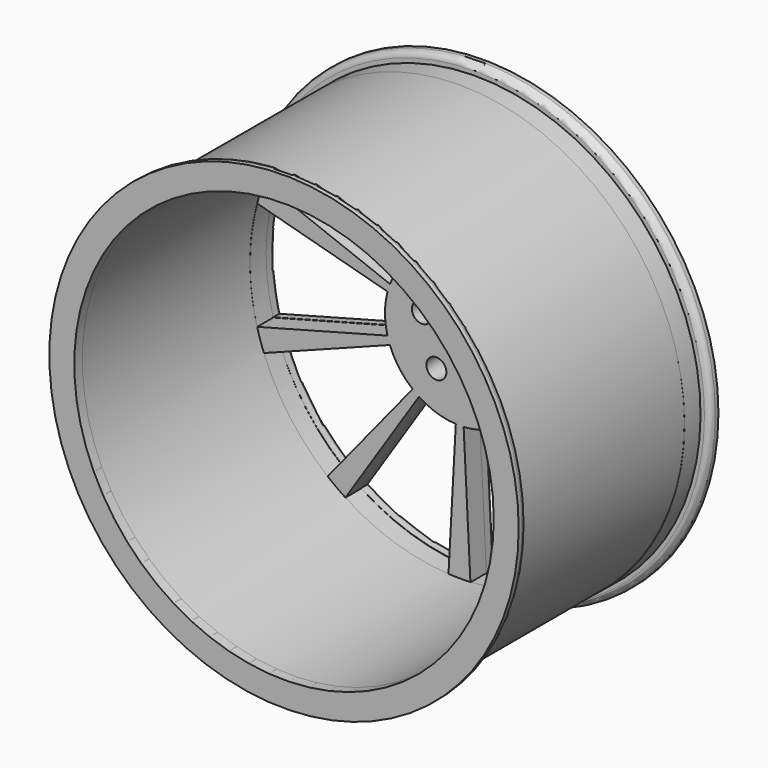
from build123d import *

# Parameters (mm, degrees)
F0_R     = 235
F0_R_2   = 10
F1_DEPTH = 10
F2_R     = 10
F3_DEPTH = 20
F4_R     = 225
F4_R_2   = 210
F5_DEPTH = 220
F6_R     = 235
F6_R_2   = 210
F7_DEPTH = 10
F8_SIZE  = 5
F9_R     = 6
F10_R    = 6
F11_SIZE = 7
F12_R    = 3


with BuildPart() as f1:
    # F0 (on Front) → F1 (new body)
    with BuildSketch(Plane.XZ):
        Circle(F0_R)
        with BuildLine():
            Line((-114.7324624371, -175.8876404502), (-40.9758794418, -62.8170144465))
            ThreePointArc((-40.9758794418, -62.8170144465), (-23.3214205125, -71.2819145736), (-4.0776453158, -74.8890700215))
            Line((-4.0776453158, -74.8890700215), (-11.4174068842, -209.6893960601))
            ThreePointArc((-11.4174068842, -209.6893960601), (-65.2999774351, -199.5893608061), (-114.7324624371, -175.8876404502))
        make_face(mode=Mode.SUBTRACT)
        with BuildLine():
            ThreePointArc((-132.4892107672, -162.9313015669), (-170.1444742736, -123.0888210772), (-196.2046730352, -74.858040845))
            Line((-196.2046730352, -74.858040845), (-70.0730975126, -26.7350145875))
            ThreePointArc((-70.0730975126, -26.7350145875), (-60.7658836691, -43.9602932419), (-47.317575274, -58.1897505596))
            Line((-47.317575274, -58.1897505596), (-132.4892107672, -162.9313015669))
        make_face(mode=Mode.SUBTRACT)
        with Locations((-23.5114100917, -32.360679775)):
            Circle(F0_R_2, mode=Mode.SUBTRACT)
        with BuildLine():
            Line((10.563649199, -209.7341396044), (3.7727318568, -74.9050498587))
            ThreePointArc((3.7727318568, -74.9050498587), (23.0310326139, -71.3762673214), (40.719806559, -62.983310121))
            Line((40.719806559, -62.983310121), (114.0154583652, -176.3532683388))
            ThreePointArc((114.0154583652, -176.3532683388), (64.486891319, -199.8535484999), (10.563649199, -209.7341396044))
        make_face(mode=Mode.SUBTRACT)
        with Locations((23.5114100917, -32.360679775)):
            Circle(F0_R_2, mode=Mode.SUBTRACT)
        with BuildLine():
            Line((131.8248058864, -163.469326031), (47.0802878166, -58.3819021539))
            ThreePointArc((47.0802878166, -58.3819021539), (60.5864140779, -44.2073119425), (69.9636763436, -27.0200664783))
            Line((69.9636763436, -27.0200664783), (195.898293762, -75.6561861392))
            ThreePointArc((195.898293762, -75.6561861392), (169.6419594181, -123.7804734391), (131.8248058864, -163.469326031))
        make_face(mode=Mode.SUBTRACT)
        with BuildLine():
            Line((202.7333672854, -54.7647860318), (72.4047740305, -19.5588521542))
            ThreePointArc((72.4047740305, -19.5588521542), (74.9998446206, -0.1526659529), (72.4837997428, 19.2639241809))
            Line((72.4837997428, 19.2639241809), (202.9546392798, 53.9389877064))
            ThreePointArc((202.9546392798, 53.9389877064), (209.9995649375, -0.427464668), (202.7333672854, -54.7647860318))
        make_face(mode=Mode.SUBTRACT)
        with BuildLine():
            Line((-202.7333672854, 54.7647860318), (-72.4047740305, 19.5588521542))
            ThreePointArc((-72.4047740305, 19.5588521542), (-74.9998446206, 0.1526659529), (-72.4837997428, -19.2639241809))
            Line((-72.4837997428, -19.2639241809), (-202.9546392798, -53.9389877064))
            ThreePointArc((-202.9546392798, -53.9389877064), (-209.9995649375, 0.427464668), (-202.7333672854, 54.7647860318))
        make_face(mode=Mode.SUBTRACT)
        with BuildLine():
            ThreePointArc((-47.0802878166, 58.3819021539), (-60.5864140779, 44.2073119425), (-69.9636763436, 27.0200664783))
            Line((-69.9636763436, 27.0200664783), (-195.898293762, 75.6561861392))
            ThreePointArc((-195.898293762, 75.6561861392), (-169.6419594181, 123.7804734391), (-131.8248058864, 163.469326031))
            Line((-131.8248058864, 163.469326031), (-47.0802878166, 58.3819021539))
        make_face(mode=Mode.SUBTRACT)
        with Locations((-38.0422606518, 12.360679775)):
            Circle(F0_R_2, mode=Mode.SUBTRACT)
        with BuildLine():
            Line((-10.563649199, 209.7341396044), (-3.7727318568, 74.9050498587))
            ThreePointArc((-3.7727318568, 74.9050498587), (-23.0310326139, 71.3762673214), (-40.719806559, 62.983310121))
            Line((-40.719806559, 62.983310121), (-114.0154583652, 176.3532683388))
            ThreePointArc((-114.0154583652, 176.3532683388), (-64.486891319, 199.8535484999), (-10.563649199, 209.7341396044))
        make_face(mode=Mode.SUBTRACT)
        with Locations((38.0422606518, 12.360679775)):
            Circle(F0_R_2, mode=Mode.SUBTRACT)
        with Locations((0, 40)):
            Circle(F0_R_2, mode=Mode.SUBTRACT)
        with BuildLine():
            Line((196.2046730352, 74.858040845), (70.0730975126, 26.7350145875))
            ThreePointArc((70.0730975126, 26.7350145875), (60.7658836691, 43.9602932419), (47.317575274, 58.1897505596))
            Line((47.317575274, 58.1897505596), (132.4892107672, 162.9313015669))
            ThreePointArc((132.4892107672, 162.9313015669), (170.1444742736, 123.0888210772), (196.2046730352, 74.858040845))
        make_face(mode=Mode.SUBTRACT)
        with BuildLine():
            Line((114.7324624371, 175.8876404502), (40.9758794418, 62.8170144465))
            ThreePointArc((40.9758794418, 62.8170144465), (23.3214205125, 71.2819145736), (4.0776453158, 74.8890700215))
            Line((4.0776453158, 74.8890700215), (11.4174068842, 209.6893960601))
            ThreePointArc((11.4174068842, 209.6893960601), (65.2999774351, 199.5893608061), (114.7324624371, 175.8876404502))
        make_face(mode=Mode.SUBTRACT)
    extrude(amount=F1_DEPTH)

    # F2 (on face) → F3 (join)
    with BuildSketch(Plane.XZ.offset(10)):
        with BuildLine():
            ThreePointArc((-122.0773718852, 188.6636860172), (-131.7988319337, 182.0114066616), (-141.1588156579, 174.859462116))
            ThreePointArc((-141.1588156579, 174.859462116), (131.9629275174, -182.5838953531), (-122.0773718852, 188.6636860172))
        make_face()
        with BuildLine():
            Line((-114.6504146453, -176.1738847959), (-40.89383165, -63.1032587922))
            ThreePointArc((-40.89383165, -63.1032587922), (-23.2393727207, -71.5681589193), (-3.995597524, -75.1753143672))
            Line((-3.995597524, -75.1753143672), (-11.3353590924, -209.9756404058))
            ThreePointArc((-11.3353590924, -209.9756404058), (-65.2179296433, -199.8756051518), (-114.6504146453, -176.1738847959))
        make_face(mode=Mode.SUBTRACT)
        with BuildLine():
            ThreePointArc((-132.4071629754, -163.2175459126), (-170.0624264817, -123.3750654229), (-196.1226252434, -75.1442851907))
            Line((-196.1226252434, -75.1442851907), (-69.9910497208, -27.0212589332))
            ThreePointArc((-69.9910497208, -27.0212589332), (-60.6838358773, -44.2465375876), (-47.2355274822, -58.4759949053))
            Line((-47.2355274822, -58.4759949053), (-132.4071629754, -163.2175459126))
        make_face(mode=Mode.SUBTRACT)
        with Locations((-23.4293622999, -32.6469241207)):
            Circle(F2_R, mode=Mode.SUBTRACT)
        with BuildLine():
            Line((10.6456969909, -210.0203839501), (3.8547796486, -75.1912942045))
            ThreePointArc((3.8547796486, -75.1912942045), (23.1130804058, -71.6625116671), (40.8018543508, -63.2695544667))
            Line((40.8018543508, -63.2695544667), (114.0975061571, -176.6395126845))
            ThreePointArc((114.0975061571, -176.6395126845), (64.5689391108, -200.1397928457), (10.6456969909, -210.0203839501))
        make_face(mode=Mode.SUBTRACT)
        with Locations((23.5934578835, -32.6469241207)):
            Circle(F2_R, mode=Mode.SUBTRACT)
        with BuildLine():
            Line((131.9068536782, -163.7555703767), (47.1623356084, -58.6681464997))
            ThreePointArc((47.1623356084, -58.6681464997), (60.6684618697, -44.4935562883), (70.0457241354, -27.306310824))
            Line((70.0457241354, -27.306310824), (195.9803415538, -75.9424304849))
            ThreePointArc((195.9803415538, -75.9424304849), (169.7240072099, -124.0667177848), (131.9068536782, -163.7555703767))
        make_face(mode=Mode.SUBTRACT)
        with BuildLine():
            Line((202.8154150773, -55.0510303775), (72.4868218223, -19.8450964999))
            ThreePointArc((72.4868218223, -19.8450964999), (75.0818924124, -0.4389102986), (72.5658475346, 18.9776798351))
            Line((72.5658475346, 18.9776798351), (203.0366870717, 53.6527433607))
            ThreePointArc((203.0366870717, 53.6527433607), (210.0816127294, -0.7137090138), (202.8154150773, -55.0510303775))
        make_face(mode=Mode.SUBTRACT)
        with BuildLine():
            Line((-202.6513194936, 54.478541686), (-72.3227262387, 19.2726078085))
            ThreePointArc((-72.3227262387, 19.2726078085), (-74.9177968287, -0.1335783929), (-72.401751951, -19.5501685266))
            Line((-72.401751951, -19.5501685266), (-202.872591488, -54.2252320521))
            ThreePointArc((-202.872591488, -54.2252320521), (-209.9175171457, 0.1412203223), (-202.6513194936, 54.478541686))
        make_face(mode=Mode.SUBTRACT)
        with BuildLine():
            ThreePointArc((-46.9982400247, 58.0956578082), (-60.5043662861, 43.9210675968), (-69.8816285518, 26.7338221325))
            Line((-69.8816285518, 26.7338221325), (-195.8162459702, 75.3699417934))
            ThreePointArc((-195.8162459702, 75.3699417934), (-169.5599116263, 123.4942290933), (-131.7427580945, 163.1830816852))
            Line((-131.7427580945, 163.1830816852), (-46.9982400247, 58.0956578082))
        make_face(mode=Mode.SUBTRACT)
        with Locations((-37.96021286, 12.0744354293)):
            Circle(F2_R, mode=Mode.SUBTRACT)
        with Locations((0.0820477918, 39.7137556543)):
            Circle(F2_R, mode=Mode.SUBTRACT)
        with BuildLine():
            Line((-10.4816014072, 209.4478952587), (-3.690684065, 74.618805513))
            ThreePointArc((-3.690684065, 74.618805513), (-22.9489848221, 71.0900229757), (-40.6377587672, 62.6970657752))
            Line((-40.6377587672, 62.6970657752), (-113.9334105734, 176.067023993))
            ThreePointArc((-113.9334105734, 176.067023993), (-64.4048435272, 199.5673041542), (-10.4816014072, 209.4478952587))
        make_face(mode=Mode.SUBTRACT)
        with Locations((38.1243084436, 12.0744354293)):
            Circle(F2_R, mode=Mode.SUBTRACT)
        with BuildLine():
            Line((196.286720827, 74.5717964992), (70.1551453044, 26.4487702418))
            ThreePointArc((70.1551453044, 26.4487702418), (60.8479314609, 43.6740488961), (47.3996230658, 57.9035062139))
            Line((47.3996230658, 57.9035062139), (132.571258559, 162.6450572211))
            ThreePointArc((132.571258559, 162.6450572211), (170.2265220654, 122.8025767315), (196.286720827, 74.5717964992))
        make_face(mode=Mode.SUBTRACT)
        with BuildLine():
            Line((114.8145102289, 175.6013961044), (41.0579272336, 62.5307701007))
            ThreePointArc((41.0579272336, 62.5307701007), (23.4034683043, 70.9956702279), (4.1596931076, 74.6028256757))
            Line((4.1596931076, 74.6028256757), (11.499454676, 209.4031517143))
            ThreePointArc((11.499454676, 209.4031517143), (65.3820252269, 199.3031164603), (114.8145102289, 175.6013961044))
        make_face(mode=Mode.SUBTRACT)
    extrude(amount=F3_DEPTH)

    # F4 (on face) → F5 (join)
    with BuildSketch(Plane.XZ.offset(30)):
        Circle(F4_R)
        Circle(F4_R_2, mode=Mode.SUBTRACT)
    extrude(amount=F5_DEPTH)

    # F8
    f8_edges = [f1.edges().sort_by_distance(p)[0] for p in [
        (28.042261, 0, 12.36068),
        (-10, 0, 40),
        (-48.042261, 0, 12.36068),
        (-33.51141, 0, -32.36068),
        (13.51141, 0, -32.36068),
    ]]
    chamfer(f8_edges, length=F8_SIZE)

    # F9
    f9_edges = [f1.edges().sort_by_distance(p)[0] for p in [
        (-235, -10, 0),
    ]]
    fillet(f9_edges, radius=F9_R)

    # F11
    f11_edges = [f1.edges().sort_by_distance(p)[0] for p in [
        (23.321421, 0, 71.281915),
        (-23.031033, 0, 71.376267),
        (-60.586414, 0, 44.207312),
        (-74.999845, 0, 0.152666),
        (-60.765884, 0, -43.960293),
        (-23.321421, 0, -71.281915),
        (23.031033, 0, -71.376267),
        (60.586414, 0, -44.207312),
        (74.999845, 0, -0.152666),
        (60.765884, 0, 43.960293),
    ]]
    chamfer(f11_edges, length=F11_SIZE)

    # F12
    f12_edges = [f1.edges().sort_by_distance(p)[0] for p in [
        (170.144474, 0, 123.088821),
        (89.903393, 0, 110.560526),
        (7.747526, 0, 142.289233),
        (-64.486891, 0, 199.853548),
        (65.299977, 0, 199.589361),
        (-169.641959, 0, 123.780473),
        (-209.999565, 0, 0.427465),
        (-170.144474, 0, -123.088821),
        (-65.299977, 0, -199.589361),
        (209.999565, 0, -0.427465),
        (169.641959, 0, -123.780473),
        (64.486891, 0, -199.853548),
        (-7.168191, 0, 142.319595),
        (-77.367632, 0, 119.668289),
        (-89.452547, 0, 110.925614),
        (77.854171, 0, 119.352327),
        (137.71922, 0, 36.601456),
        (133.138885, 0, 50.796528),
        (132.930985, 0, -51.338126),
        (77.367632, 0, -119.668289),
        (-7.747526, 0, -142.289233),
        (-89.903393, 0, -110.560526),
        (-133.138885, 0, -50.796528),
        (-137.569071, 0, 37.161819),
        (-137.71922, 0, -36.601456),
        (-77.854171, 0, -119.352327),
        (7.168191, 0, -142.319595),
        (89.452547, 0, -110.925614),
        (137.569071, 0, -37.161819),
        (-132.930985, 0, 51.338126),
    ]]
    fillet(f12_edges, radius=F12_R)


with BuildPart() as f7:
    # F6 (on face) → F7 (new body)
    with BuildSketch(Plane.XZ.offset(250)):
        Circle(F6_R)
        Circle(F6_R_2, mode=Mode.SUBTRACT)
    extrude(amount=-F7_DEPTH)

    # F10
    f10_edges = [f7.edges().sort_by_distance(p)[0] for p in [
        (-235, -240, 0),
    ]]
    fillet(f10_edges, radius=F10_R)


solid = Compound([f1.part, f7.part])
